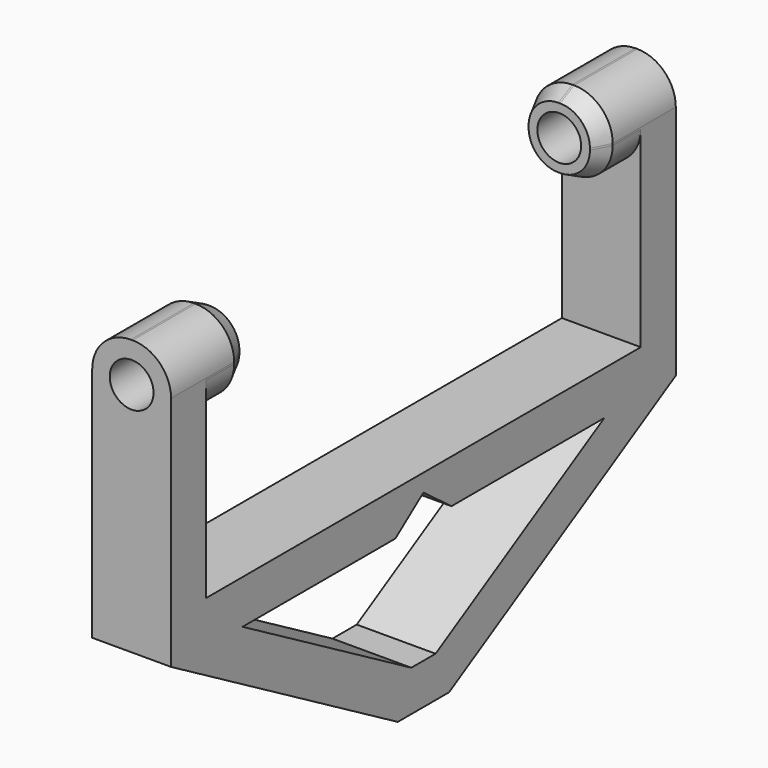
from build123d import *

# Parameters (mm, degrees)
PAD001_DEPTH         = 4.5
FILLET_R             = 4.4
CHAMFER_1_SIZE2      = 2
CHAMFER_1_SIZE       = 1
CHAMFER_2_SIZE2      = 2
CHAMFER_2_SIZE       = 1
CHAMFER001_SIZE      = 2
PAD002_DEPTH         = 4.5
SKETCH006_R          = 2.5
POCKET001_DEPTH      = 36.001
POCKET001_DEPTH_BACK = 36.001


with BuildPart() as part:
    # Sketch004 → Pad001 (new body, symmetric)
    with BuildSketch(Plane.YZ):
        Polygon((-31, 5.5), (-31, -14), (0, -31.897858), (0, -35.558112), (-3.660254, -35.558112), (-36, -16.886751), (-36, 14.5), (-25, 14.5), (-25, 5.5), align=None)
    pad001 = extrude(amount=PAD001_DEPTH, both=True)

    # Mirrored: Pad001 across Sketch004 V_Axis
    add(pad001.mirror(Plane(origin=(0, 0, 0), x_dir=(1, 0, 0), z_dir=(0, 1, 0))))

    # Fillet
    fillet_edges = [part.edges().sort_by_distance(p)[0] for p in [
        (-4.5, 28, 5.5),
        (-4.5, 30.5, 14.5),
        (4.5, 28, 5.5),
        (-4.5, -28, 5.5),
        (-4.5, -30.5, 14.5),
        (4.5, -30.5, 14.5),
        (4.5, 30.5, 14.5),
        (4.5, -28, 5.5),
    ]]
    fillet(fillet_edges, radius=FILLET_R)

    # Chamfer 1
    chamfer_1_edges = [part.edges().sort_by_distance(p)[0] for p in [
        (-3.21127, 25, 13.21127),
    ]]
    chamfer_1_side = part.faces().sort_by_distance((0, 25, 10))[0]
    chamfer(chamfer_1_edges, length=CHAMFER_1_SIZE, length2=CHAMFER_1_SIZE2, reference=chamfer_1_side)

    # Chamfer 2
    chamfer_2_edges = [part.edges().sort_by_distance(p)[0] for p in [
        (-3.21127, -25, 13.21127),
    ]]
    chamfer_2_side = part.faces().sort_by_distance((0, -25, 10))[0]
    chamfer(chamfer_2_edges, length=CHAMFER_2_SIZE, length2=CHAMFER_2_SIZE2, reference=chamfer_2_side)

    # Chamfer001
    chamfer001_edges = [part.edges().sort_by_distance(p)[0] for p in [
        (0, 0, -31.897858),
    ]]
    chamfer(chamfer001_edges, length=CHAMFER001_SIZE)

    # Sketch005 → Pad002 (join, symmetric)
    with BuildSketch(Plane.YZ):
        Polygon((-34, -12), (34, -12), (34, -17), (4, -17), (0, -14), (-4, -17), (-34, -17), align=None)
    extrude(amount=PAD002_DEPTH, both=True)

    # Sketch006 → Pocket001 (cut, two sides)
    with BuildSketch(Plane.XZ) as pocket001_sk:
        with Locations((0, 10)):
            Circle(SKETCH006_R)
    extrude(amount=-POCKET001_DEPTH, mode=Mode.SUBTRACT)
    extrude(pocket001_sk.sketch, amount=POCKET001_DEPTH_BACK, mode=Mode.SUBTRACT)


solid = part.part
